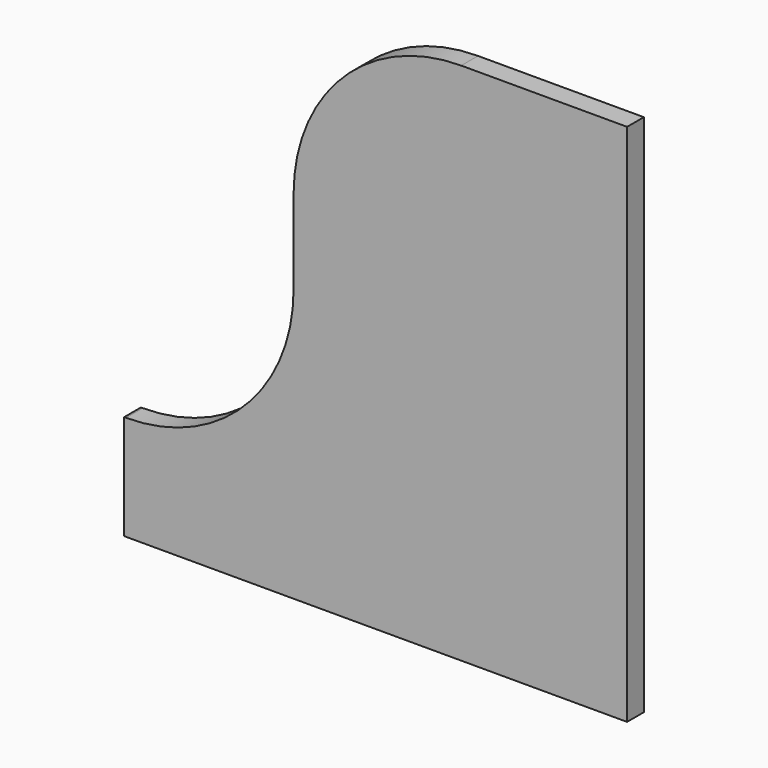
from build123d import *

# Parameters (mm, degrees)
F1_DEPTH = 25.4


with BuildPart() as f1:
    # F0 (on Front) → F1 (new body)
    with BuildSketch(Plane.XZ):
        with BuildLine():
            Line((404.231067, 86.508998), (277.231067, 86.508998))
            Line((277.231067, 86.508998), (203.2, 86.508998))
            ThreePointArc((203.2, 86.508998), (59.515902, 26.993096), (0, -116.691002))
            Line((0, -116.691002), (0, -176.896468))
            Line((0, -176.896468), (0, -218.291002))
            ThreePointArc((0, -218.291002), (-59.515902, -361.9751), (-203.2, -421.491002))
            Line((-203.2, -421.491002), (-205.368933, -421.491002))
            Line((-205.368933, -421.491002), (-205.368933, -548.491002))
            Line((-205.368933, -548.491002), (404.231067, -548.491002))
            Line((404.231067, -548.491002), (404.231067, 86.508998))
        make_face()
    extrude(amount=F1_DEPTH)


solid = f1.part
